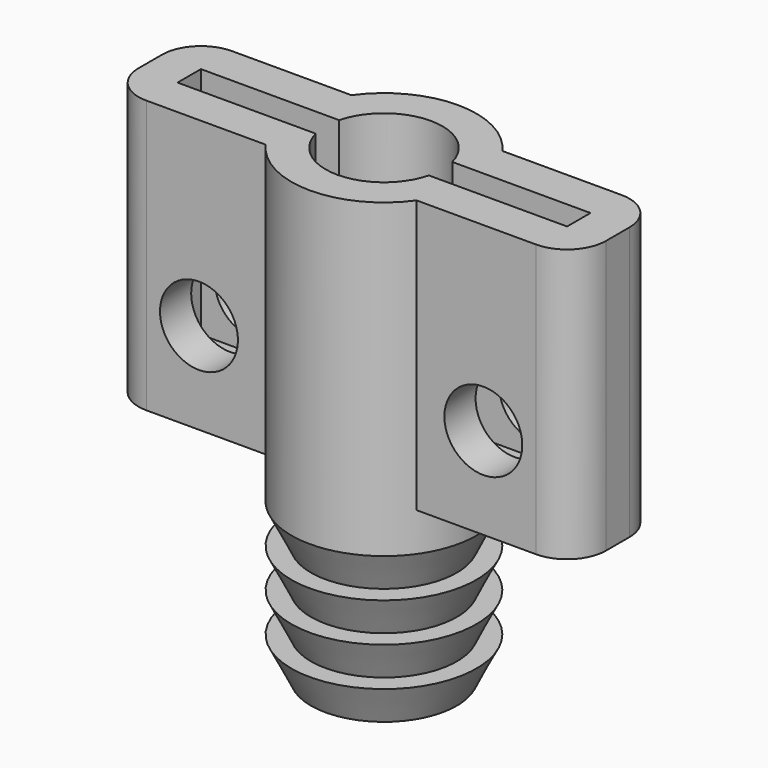
from build123d import *

# Parameters (mm, degrees)
SKETCH159_W     = 24
SKETCH159_H     = 5.5
PAD063_DEPTH    = 14
SKETCH160_R     = 4.75
PAD064_DEPTH    = 24
SKETCH161_R     = 3
POCKET063_DEPTH = 24.001
SKETCH162_W     = 20
SKETCH162_H     = 1.5
POCKET064_DEPTH = 12
SKETCH163_R     = 2
POCKET065_DEPTH = 7.501
SKETCH164_W     = 4.75
SKETCH164_H     = 1
PAD065_DEPTH    = 1
SKETCH166_W     = 4.75
SKETCH166_H     = 1
POCKET066_DEPTH = 4.751
FILLET011_R     = 2


with BuildPart() as part:
    # Sketch159 → Pad063 (new body)
    with BuildSketch(Plane.XY):
        with Locations((12, 2.75)):
            Rectangle(SKETCH159_W, SKETCH159_H)
    extrude(amount=PAD063_DEPTH)

    # Sketch160 (on Face6 of Pad063) → Pad064 (join)
    with BuildSketch(Plane.XY.offset(14)):
        with Locations((12, 2.75)):
            Circle(SKETCH160_R)
    extrude(amount=-PAD064_DEPTH)

    # Sketch161 (on Face7 of Pad064) → Pocket063 (cut, through all)
    with BuildSketch(Plane.XY.offset(14)):
        with Locations((12, 2.75)):
            Circle(SKETCH161_R)
    extrude(amount=-POCKET063_DEPTH, mode=Mode.SUBTRACT)

    # Sketch162 (on Face5 of Pocket063) → Pocket064 (cut)
    with BuildSketch(Plane.XY.offset(14)):
        with Locations((12, 2.75)):
            Rectangle(SKETCH162_W, SKETCH162_H)
    extrude(amount=-POCKET064_DEPTH, mode=Mode.SUBTRACT)

    # Sketch163 (on Face2 of Pocket064) → Pocket065 (cut, through all)
    with BuildSketch(Plane(origin=(0, 5.5, 0), x_dir=(-1, 0, 0), z_dir=(0, 1, 0))):
        with Locations((-19.3, 4.7)):
            Circle(SKETCH163_R)
        with Locations((-4.7, 4.7)):
            Circle(SKETCH163_R)
    extrude(amount=-POCKET065_DEPTH, mode=Mode.SUBTRACT)

    # Sketch164 (on Face19 of Pocket065) → Pad065 (join)
    with BuildSketch(Plane(origin=(0, 0, -10), x_dir=(1, 0, 0), z_dir=(0, 0, -1))):
        with Locations((9.625, -2.25)):
            Rectangle(SKETCH164_W, SKETCH164_H)
    extrude(amount=PAD065_DEPTH)

    # Sketch165 (on Face24 of Pad065) → Groove (revolve, cut)
    with BuildSketch(Plane(origin=(0, 2.75, 0), x_dir=(-1, 0, 0), z_dir=(0, 1, 0))):
        Polygon((-7.25, -1.982419), (-8.25, -3.986814), (-7.25, -3.986814), (-8.25, -5.99121), (-7.25, -5.99121), (-8.25, -7.995605), (-7.25, -7.995605), (-8.25, -10), (-7.25, -10), (-6.25, -10), (-6.25, -1.982419), align=None)
    revolve(axis=Axis((11.996907, 2.75, -10.00717), (0, 0, 1)), mode=Mode.SUBTRACT)

    # Sketch166 (on Face37 of Groove) → Pocket066 (cut, through all)
    with BuildSketch(Plane(origin=(0, 2.75, 0), x_dir=(-1, 0, 0), z_dir=(0, 1, 0))):
        with Locations((-9.625, -10.5)):
            Rectangle(SKETCH166_W, SKETCH166_H)
    extrude(amount=-POCKET066_DEPTH, mode=Mode.SUBTRACT)

    # Fillet011
    fillet011_edges = [part.edges().sort_by_distance(p)[0] for p in [
        (0, 5.5, 7),
        (0, 0, 7),
        (24, 5.5, 7),
        (24, 0, 7),
    ]]
    fillet(fillet011_edges, radius=FILLET011_R)


solid = part.part
